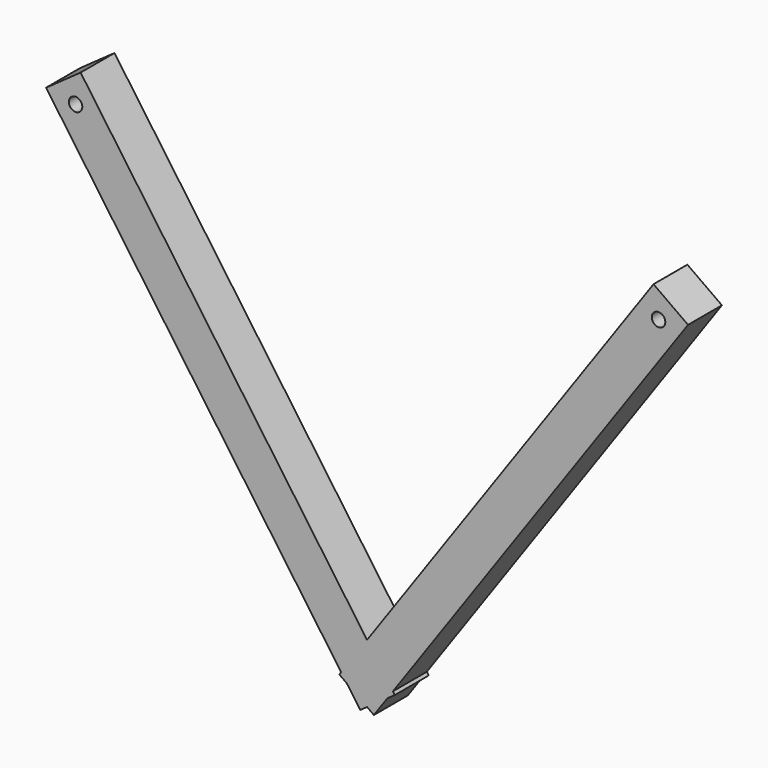
from build123d import *

# Parameters (mm, degrees)
F1_DEPTH = 80
F2_R     = 12.7
F3_DEPTH = 80


with BuildPart() as f1:
    # F0 (on Front) → F1 (new body)
    with BuildSketch(Plane.XZ):
        Polygon((540.943911, 841.859221), (-52.497789, 0), (12.897508, -46.098321), (606.147254, 795.488594), align=None)
    extrude(amount=F1_DEPTH)

    # F2 (on face) → F3 (cut, through all)
    with BuildSketch(Plane.XZ.offset(80)):
        with Locations((550.496222, 785.975975)):
            Circle(F2_R)
    extrude(amount=-F3_DEPTH, mode=Mode.SUBTRACT)

    # F4: F1 across plane


with BuildPart() as f1_1:
    add(f1.part)
    add(f1.part.mirror(Plane.YZ))


solid = f1_1.part
